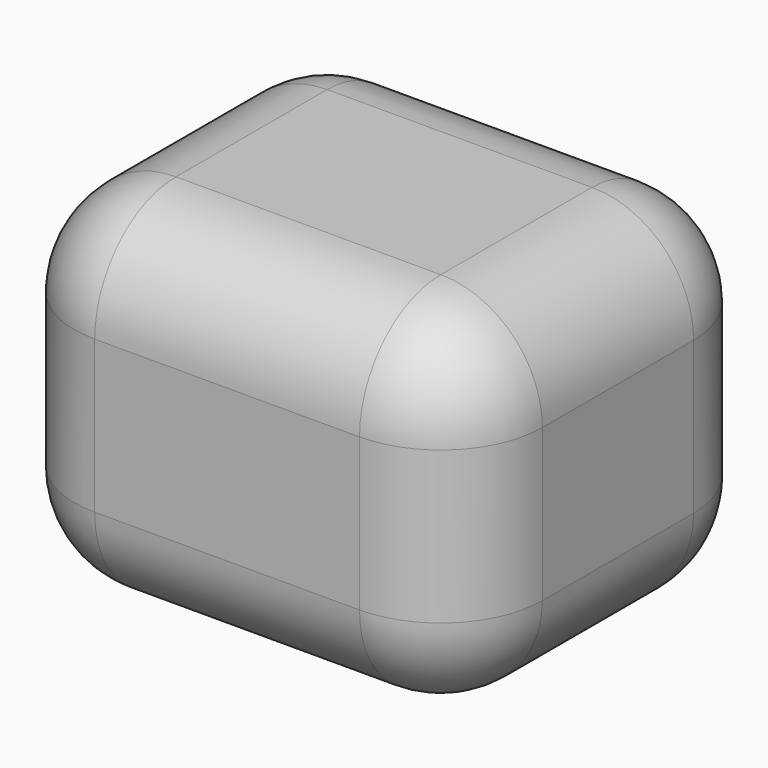
from build123d import *

# Parameters (mm, degrees)
F0_W     = 46.0741333663
F0_H     = 38.6145105585
F1_DEPTH = 25
F2_DEPTH = 10
F3_R     = 10


with BuildPart() as f1:
    # F0 (on Top) → F1 (new body)
    with BuildSketch(Plane.XY):
        with Locations((-35.7623007149, 32.0324976929)):
            Rectangle(F0_W, F0_H)
    extrude(amount=F1_DEPTH)

    # F2 (add): a face of the model
    f2_faces = [f1.faces().sort_by_distance(p)[0] for p in [
        (-35.7623007149, 32.0324976929, 25),
    ]]
    extrude(f2_faces, amount=F2_DEPTH)

    # F3
    f3_edges = [f1.edges().sort_by_distance(p)[0] for p in [
        (-35.762301, 51.339753, 35),
        (-58.799367, 51.339753, 17.5),
        (-58.799367, 32.032498, 35),
        (-58.799367, 12.725242, 17.5),
        (-58.799367, 32.032498, 0),
        (-35.762301, 51.339753, 0),
        (-12.725234, 51.339753, 17.5),
        (-12.725234, 32.032498, 35),
        (-12.725234, 32.032498, 0),
        (-12.725234, 12.725242, 17.5),
        (-35.762301, 12.725242, 35),
        (-35.762301, 12.725242, 0),
    ]]
    fillet(f3_edges, radius=F3_R)


solid = f1.part
